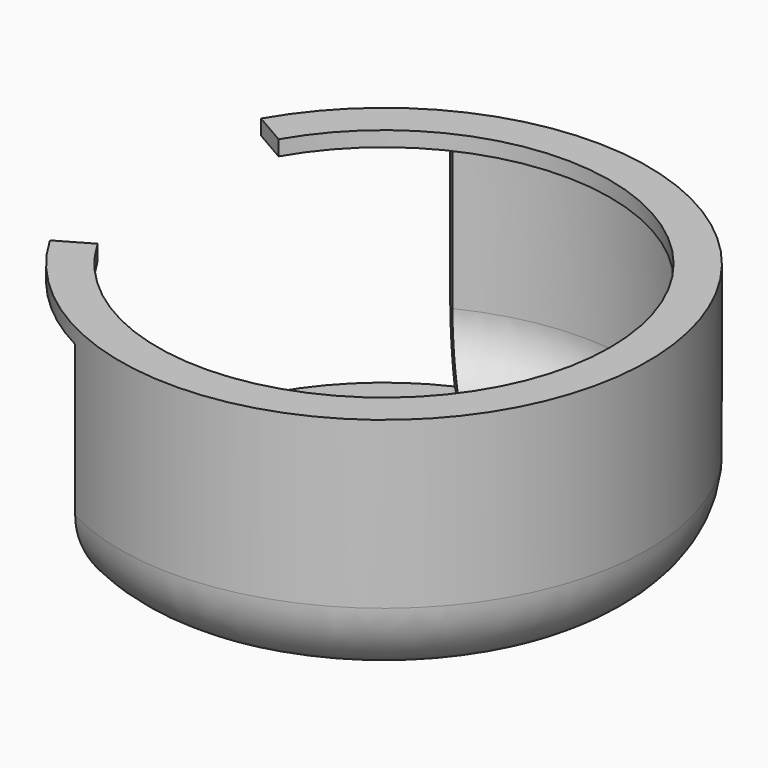
from build123d import *

# Parameters (mm, degrees)
F1_ANGLE = 300
F3_DEPTH = 28


with BuildPart() as f1:
    # F0 (on Front) → F1 (revolve, symmetric)
    with BuildSketch(Plane.XZ) as f1_sk:
        with BuildLine():
            Line((35, -20), (35, 0))
            Line((35, 0), (35, 2))
            Line((35, 2), (30, 2))
            Line((30, 2), (30, 0))
            Line((30, 0), (33, 0))
            Line((33, 0), (33, -20))
            ThreePointArc((33, -20), (30.656854, -25.656854), (25, -28))
            Line((25, -28), (25, -30))
            ThreePointArc((25, -30), (32.071068, -27.071068), (35, -20))
        make_face()
    revolve(axis=Axis((0, 0, -15), (0, 0, -1)), revolution_arc=F1_ANGLE / 2)
    revolve(f1_sk.sketch, axis=Axis((0, 0, -15), (0, 0, 1)), revolution_arc=F1_ANGLE / 2)

    # F2 (on Top) → F3 (cut)
    with BuildSketch(Plane.XY):
        Polygon((-55, -70), (15, 0), (-55, 70), (-55, 0), align=None)
    extrude(amount=-F3_DEPTH, mode=Mode.SUBTRACT)


solid = f1.part
